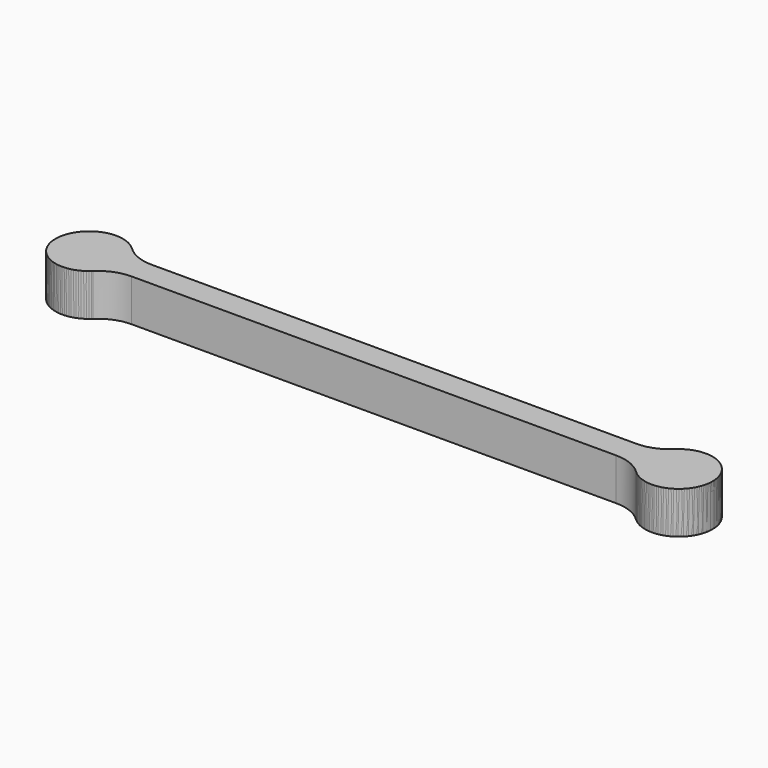
from build123d import *

# Parameters (mm, degrees)
PAD_DEPTH         = 6
PAD_DEPTH_BACK    = 4
PAD001_DEPTH      = 6
PAD001_DEPTH_BACK = 4
SKETCH005_W       = 10
SKETCH005_H       = 1
POCKET_DEPTH      = 8
FILLET_R          = 10


with BuildPart() as link_skel:
    # Sketch → Pad (new body, two sides)
    with BuildSketch(Plane.XY) as pad_sk:
        with BuildLine():
            ThreePointArc((-62.583802, 3), (-78, 0), (-62.583802, -3))
            Line((-62.583802, -3), (62.583802, -3))
            ThreePointArc((62.583802, -3), (78, 0), (62.583802, 3))
            Line((62.583802, 3), (-62.583802, 3))
        make_face()
    extrude(amount=PAD_DEPTH)
    extrude(pad_sk.sketch, amount=-PAD_DEPTH_BACK)

    # Sketch001 → Groove (revolve, cut)
    with BuildSketch(Plane.XZ):
        with BuildLine():
            ThreePointArc((-70, 5), (-74.171208, 2.756995), (-74.6, -1.959592))
            Line((-74.6, -1.959592), (-79.242132, -10))
            Line((-79.242132, -10), (-70, -10))
            Line((-70, 5), (-70, -10))
        make_face()
    groove = revolve(axis=Axis((-70, 0, 5), (0, 0, -1)), mode=Mode.SUBTRACT)

    # Mirrored: Groove across Sketch001 V_Axis
    add(groove.mirror(Plane(origin=(0, 0, 0), x_dir=(0, -1, 0), z_dir=(1, 0, 0))), mode=Mode.SUBTRACT)


with BuildPart() as link0:
    # Sketch003 → Pad001 (new body, two sides)
    with BuildSketch(Plane.XY) as pad001_sk:
        with BuildLine():
            ThreePointArc((-62.583802, 3), (-78, 0), (-62.583802, -3))
            Line((-62.583802, -3), (62.583802, -3))
            ThreePointArc((62.583802, -3), (78, 0), (62.583802, 3))
            Line((62.583802, 3), (-62.583802, 3))
        make_face()
    extrude(amount=PAD001_DEPTH)
    extrude(pad001_sk.sketch, amount=-PAD001_DEPTH_BACK)

    # Sketch004 → Groove001 (revolve, cut)
    with BuildSketch(Plane.XZ):
        with BuildLine():
            ThreePointArc((-70, 5), (-74.171208, 2.756995), (-74.6, -1.959592))
            Line((-74.6, -1.959592), (-79.242132, -10))
            Line((-79.242132, -10), (-70, -10))
            Line((-70, 5), (-70, -10))
        make_face()
    groove001 = revolve(axis=Axis((-70, 0, 5), (0, 0, -1)), mode=Mode.SUBTRACT)

    # Sketch005 (on Face4 of Groove001) → Pocket (cut)
    with BuildSketch(Plane(origin=(0, 0, -4), x_dir=(1, 0, 0), z_dir=(0, 0, -1))):
        with Locations((-76, 0)):
            Rectangle(SKETCH005_W, SKETCH005_H)
    pocket = extrude(amount=-POCKET_DEPTH, mode=Mode.SUBTRACT)

    # Mirrored001: Pocket, Groove001 across Sketch005 V_Axis
    add(pocket.mirror(Plane(origin=(0, 0, -4), x_dir=(0, 0, -1), z_dir=(1, 0, 0))), mode=Mode.SUBTRACT)
    add(groove001.mirror(Plane(origin=(0, 0, -4), x_dir=(0, 0, -1), z_dir=(1, 0, 0))), mode=Mode.SUBTRACT)

    # Fillet
    fillet_edges = [link0.edges().sort_by_distance(p)[0] for p in [
        (-62.583802, -3, 1),
        (-62.583802, 3, 1),
        (62.583802, 3, 1),
        (62.583802, -3, 1),
    ]]
    fillet(fillet_edges, radius=FILLET_R)


solid = Compound([link_skel.part, link0.part])
